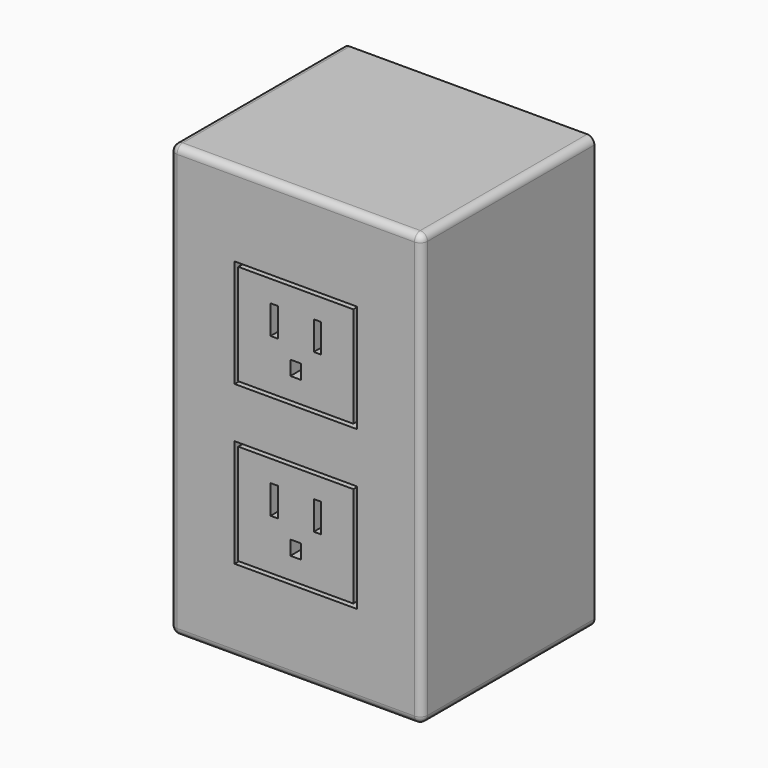
from build123d import *

# Parameters (mm, degrees)
F0_W     = 70
F0_H     = 120
F1_DEPTH = 60
F2_R     = 2
F3_W     = 34
F3_H     = 30
F3_W_2   = 32
F3_H_2   = 28
F4_DEPTH = 25
F5_W     = 3
F5_H     = 4
F5_W_2   = 2
F5_H_2   = 8
F6_DEPTH = 25


with BuildPart() as f1:
    # F0 (on Front) → F1 (new body)
    with BuildSketch(Plane.XZ):
        Rectangle(F0_W, F0_H)
    extrude(amount=F1_DEPTH)

    # F2
    f2_edges = [f1.edges().sort_by_distance(p)[0] for p in [
        (35, -30, 60),
        (35, -30, -60),
        (-35, -30, 60),
        (-35, -30, -60),
        (0, -60, -60),
        (35, -60, 0),
        (0, -60, 60),
        (-35, -60, 0),
    ]]
    fillet(f2_edges, radius=F2_R)

    # F3 (on face) → F4 (cut)
    with BuildSketch(Plane.XZ.offset(60)):
        with Locations((0, 22)):
            Rectangle(F3_W, F3_H)
        with Locations((0, 22)):
            Rectangle(F3_W_2, F3_H_2, mode=Mode.SUBTRACT)
        with Locations((0, -22)):
            Rectangle(F3_W, F3_H)
        with Locations((0, -22)):
            Rectangle(F3_W_2, F3_H_2, mode=Mode.SUBTRACT)
    extrude(amount=-F4_DEPTH, mode=Mode.SUBTRACT)

    # F5 (on face) → F6 (cut)
    with BuildSketch(Plane.XZ.offset(60)):
        with Locations((0, 16)):
            Rectangle(F5_W, F5_H)
        with Locations((0, -28)):
            Rectangle(F5_W, F5_H)
        with Locations((-6, -18)):
            Rectangle(F5_W_2, F5_H_2)
        with Locations((-6, 26)):
            Rectangle(F5_W_2, F5_H_2)
        with Locations((6, 26)):
            Rectangle(F5_W_2, F5_H_2)
        with Locations((6, -18)):
            Rectangle(F5_W_2, F5_H_2)
    extrude(amount=-F6_DEPTH, mode=Mode.SUBTRACT)


solid = f1.part
